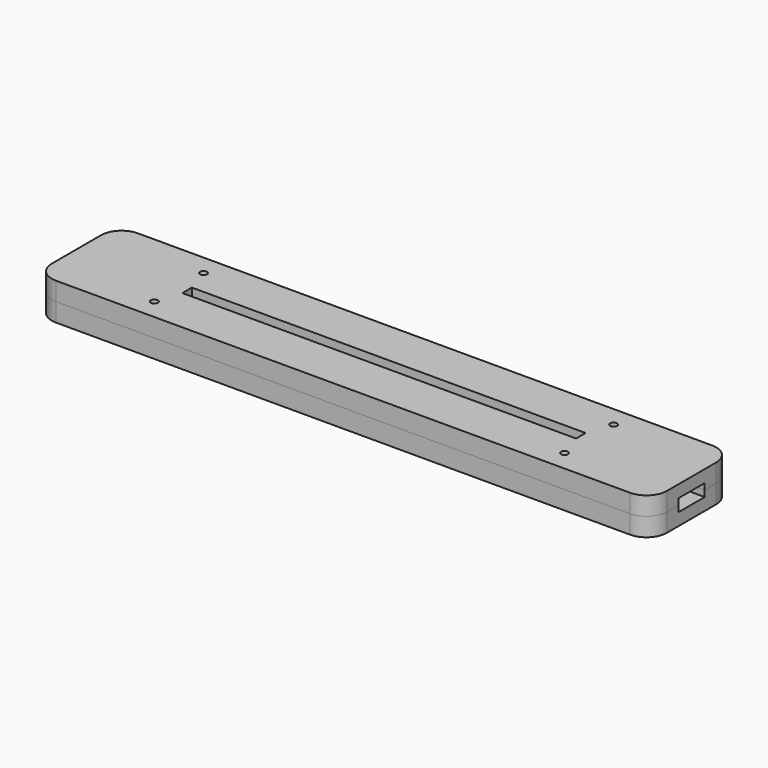
from build123d import *

# Parameters (mm, degrees)
BOX_BOTTOM_HALF_0_W     = 152
BOX_BOTTOM_HALF_0_H     = 27
BOX_BOTTOM_HALF_0_DEPTH = 5.5
SKETCH_W                = 150
SKETCH_H                = 25
PAD_DEPTH               = 3
PAD001_DEPTH            = 3
SKETCH004_W             = 150
SKETCH004_H             = 25
SKETCH004_W_2           = 96
SKETCH004_H_2           = 2.9
PAD002_DEPTH            = 3
SKETCH005_R             = 0.85
POCKET_DEPTH            = 313.671314
POLARPATTERN_COUNT      = 2
POLARPATTERN001_COUNT   = 2
POLARPATTERN002_COUNT   = 2
FILLET_R                = 5


with BuildPart() as box_bottom_half_0_body:
    # box_bottom_half_0 → box_bottom_half_0 (new body)
    with BuildSketch(Plane(origin=(-76, -13.5, -1), x_dir=(1, 0, 0), z_dir=(0, 0, 1))):
        with Locations((76, 13.5)):
            Rectangle(BOX_BOTTOM_HALF_0_W, BOX_BOTTOM_HALF_0_H)
    extrude(amount=BOX_BOTTOM_HALF_0_DEPTH)


with BuildPart() as body:
    # Sketch → Pad (new body)
    with BuildSketch(Plane.XY):
        Rectangle(SKETCH_W, SKETCH_H)
    extrude(amount=PAD_DEPTH)

    # Sketch001 (on Face6 of Pad) → Pad001 (join)
    with BuildSketch(Plane.XY.offset(3)):
        Polygon((-75, 12.5), (75, 12.5), (75, 4), (50, 4), (50, 5), (-50, 5), (-50, 4), (-52.25, 4), (-52.25, 9.2), (-72.25, 9.2), (-72.25, 4.5), (-75, 4.5), align=None)
        Polygon((-75, -12.5), (75, -12.5), (75, -4), (50, -4), (50, -5), (-50, -5), (-50, -4), (-52.25, -4), (-52.25, -9.2), (-72.25, -9.2), (-72.25, -4.5), (-75, -4.5), align=None)
    extrude(amount=PAD001_DEPTH)

    # Sketch004 (on Face12 of Pad001) → Pad002 (join)
    with BuildSketch(Plane.XY.offset(6)):
        Rectangle(SKETCH004_W, SKETCH004_H)
        Rectangle(SKETCH004_W_2, SKETCH004_H_2, mode=Mode.SUBTRACT)
    extrude(amount=PAD002_DEPTH)

    # Sketch005 (on Face34 of Pad002) → Pocket (cut, through all)
    with BuildSketch(Plane.XY.offset(9)):
        with Locations((-50, 7.5)):
            Circle(SKETCH005_R)
    pocket = extrude(amount=-POCKET_DEPTH, mode=Mode.SUBTRACT)

    # PolarPattern: Pocket ×2 about axis
    polarpattern_axis = Axis((0, 0, 9), (0, 0, 1))
    for i in range(1, POLARPATTERN_COUNT):
        add(pocket.rotate(polarpattern_axis, i * 360 / POLARPATTERN_COUNT), mode=Mode.SUBTRACT)

    # PolarPattern001: Pocket ×2 about axis
    polarpattern001_axis = Axis((0, 0, 0), (0, 1, 0))
    for i in range(1, POLARPATTERN001_COUNT):
        add(pocket.rotate(polarpattern001_axis, i * 360 / POLARPATTERN001_COUNT), mode=Mode.SUBTRACT)

    # PolarPattern002: Pocket ×2 about axis
    polarpattern002_axis = Axis((0, 0, 0), (1, 0, 0))
    for i in range(1, POLARPATTERN002_COUNT):
        add(pocket.rotate(polarpattern002_axis, i * 360 / POLARPATTERN002_COUNT), mode=Mode.SUBTRACT)

    # Fillet
    fillet_edges = [body.edges().sort_by_distance(p)[0] for p in [
        (75, -12.5, 7.5),
        (75, 12.5, 7.5),
        (-75, -12.5, 7.5),
        (-75, 12.5, 7.5),
    ]]
    fillet(fillet_edges, radius=FILLET_R)


with BuildPart() as bottom_half_0_body:
    # bottom_half_0 base: copy of Body
    add(body.part)

    # bottom_half_0: intersect box_bottom_half_0 body
    add(box_bottom_half_0_body.part, mode=Mode.INTERSECT)


with BuildPart() as top_half_0_body:
    # top_half_0 base: copy of Body
    add(body.part)

    # top_half_0: cut box_bottom_half_0 body
    add(box_bottom_half_0_body.part, mode=Mode.SUBTRACT)


solid = Compound([bottom_half_0_body.part, top_half_0_body.part])
